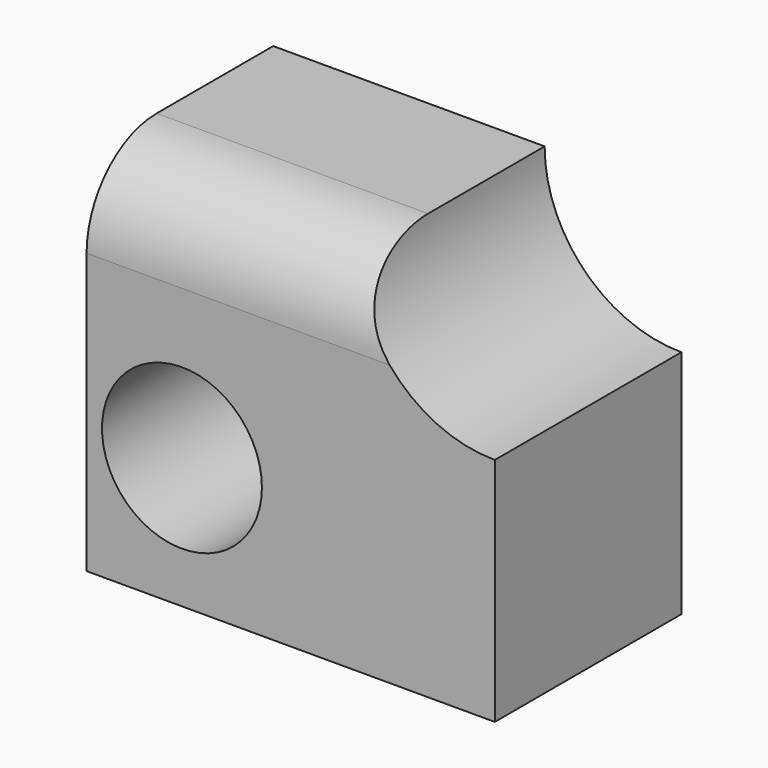
from build123d import *

# Parameters (mm, degrees)
F0_W     = 70
F0_H     = 40
F1_DEPTH = 63
F2_R     = 23.451483
F3_DEPTH = 74
F4_R     = 13.707811
F5_DEPTH = 87.035492
F6_R     = 15


with BuildPart() as f1:
    # F0 (on Top) → F1 (new body)
    with BuildSketch(Plane.XY):
        with Locations((0, -26)):
            Rectangle(F0_W, F0_H)
    extrude(amount=F1_DEPTH)

    # F2 (on face) → F3 (cut)
    with BuildSketch(Plane.XZ.offset(46)):
        with Locations((35, 63)):
            Circle(F2_R)
    extrude(amount=-F3_DEPTH, mode=Mode.SUBTRACT)

    # F4 (on Front) → F5 (cut)
    with BuildSketch(Plane.XZ):
        with Locations((-18.644467, 22.406071)):
            Circle(F4_R)
    extrude(amount=F5_DEPTH, mode=Mode.SUBTRACT)

    # F6
    f6_edges = [f1.edges().sort_by_distance(p)[0] for p in [
        (-11.725742, -46, 63),
    ]]
    fillet(f6_edges, radius=F6_R)


solid = f1.part
